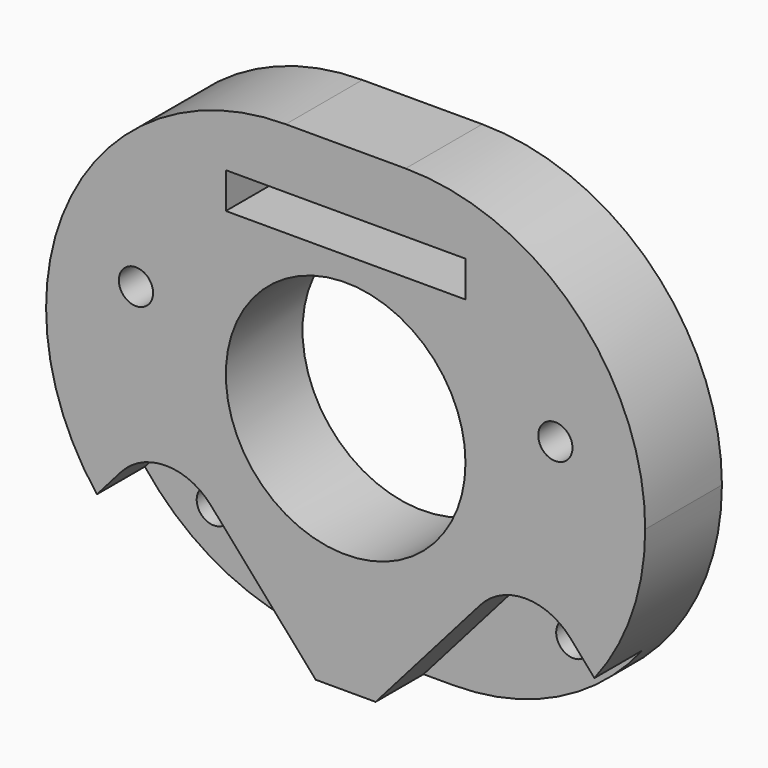
from build123d import *

# Parameters (mm, degrees)
PAD005_DEPTH    = 8
SKETCH018_W     = 20
SKETCH018_H     = 3
POCKET011_DEPTH = 5
SKETCH019_R     = 10
SKETCH019_R_2   = 1.43
POCKET012_DEPTH = 10


with BuildPart() as part:
    # Sketch017 → Pad005 (new body)
    with BuildSketch(Plane.XZ):
        with BuildLine():
            Line((-4.99996, 20), (4.99996, 20))
            ThreePointArc((25, 0), (19.142122, 14.14215), (4.99996, 20))
            ThreePointArc((4.99996, -20), (19.142122, -14.14215), (25, 0))
            Line((4.99996, -20), (-4.99996, -20))
            ThreePointArc((-25, 0), (-19.142122, -14.14215), (-4.99996, -20))
            ThreePointArc((-4.99996, 20), (-19.142122, 14.14215), (-25, 0))
        make_face()
    extrude(amount=PAD005_DEPTH)

    # Sketch018 (on Face8 of Pad005) → Pocket011 (cut)
    with BuildSketch(Plane.XZ.offset(8)):
        with BuildLine():
            ThreePointArc((-11.241388, -10.035935), (-15, -8.333333), (-18.758612, -10.035935))
            Line((-18.758612, -10.035935), (-27.5, -20))
            ThreePointArc((-27.5, -20), (-15, -47.594619), (-2.5, -20))
            Line((-2.5, -20), (-11.241388, -10.035935))
        make_face()
        with BuildLine():
            ThreePointArc((18.758612, -10.035935), (15, -8.333333), (11.241388, -10.035935))
            Line((11.241388, -10.035935), (2.5, -20))
            ThreePointArc((2.5, -20), (15, -47.594619), (27.5, -20))
            Line((27.5, -20), (18.758612, -10.035935))
        make_face()
        with Locations((0, 13.5)):
            Rectangle(SKETCH018_W, SKETCH018_H)
    extrude(amount=-POCKET011_DEPTH, mode=Mode.SUBTRACT)

    # Sketch019 (on Face5 of Pocket011) → Pocket012 (cut)
    with BuildSketch(Plane.XZ.offset(8)):
        Circle(SKETCH019_R)
        with Locations((-15, -13.333333)):
            Circle(SKETCH019_R_2)
        with Locations((15, -13.333333)):
            Circle(SKETCH019_R_2)
        with Locations((-17.5, 4)):
            Circle(SKETCH019_R_2)
        with Locations((17.5, 4)):
            Circle(SKETCH019_R_2)
    extrude(amount=-POCKET012_DEPTH, mode=Mode.SUBTRACT)


with BuildPart() as part_1:
    # Body005 placement: moved
    add(part.part.moved(Location((60, 55.5, 76.5))))


solid = part_1.part
